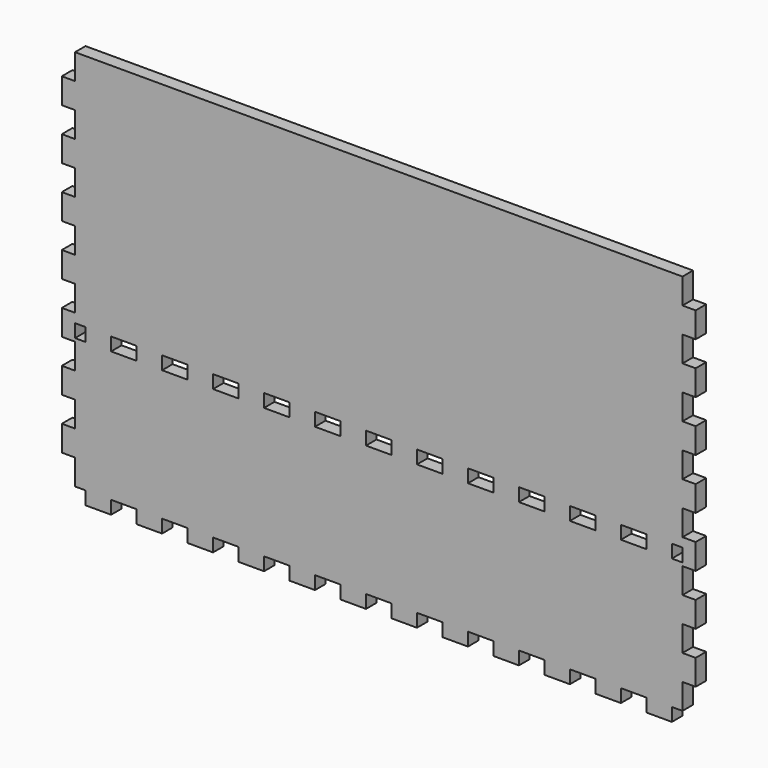
from build123d import *

# Parameters (mm, degrees)
F0_W     = 286
F0_H     = 180
F1_DEPTH = 6.2
F2_W     = 12
F2_H     = 6.2
F2_W_2   = 5
F3_DEPTH = 6.201
F4_W     = 12
F4_H     = 6.2
F5_DEPTH = 6.2
F6_W     = 6.2
F6_H     = 12
F7_DEPTH = 6.2


with BuildPart() as f1:
    # F0 (on Front) → F1 (new body)
    with BuildSketch(Plane.XZ):
        Rectangle(F0_W, F0_H)
    extrude(amount=F1_DEPTH)

    # F2 (on face) → F3 (cut, through all)
    with BuildSketch(Plane.XZ.offset(6.2)):
        with Locations((-120, -25.4)):
            Rectangle(F2_W, F2_H)
        with Locations((-96, -25.4)):
            Rectangle(F2_W, F2_H)
        with Locations((-72, -25.4)):
            Rectangle(F2_W, F2_H)
        with Locations((-48, -25.4)):
            Rectangle(F2_W, F2_H)
        with Locations((-24, -25.4)):
            Rectangle(F2_W, F2_H)
        with Locations((0, -25.4)):
            Rectangle(F2_W, F2_H)
        with Locations((24, -25.4)):
            Rectangle(F2_W, F2_H)
        with Locations((48, -25.4)):
            Rectangle(F2_W, F2_H)
        with Locations((72, -25.4)):
            Rectangle(F2_W, F2_H)
        with Locations((96, -25.4)):
            Rectangle(F2_W, F2_H)
        with Locations((120, -25.4)):
            Rectangle(F2_W, F2_H)
        with Locations((-140.5, -25.4)):
            Rectangle(F2_W_2, F2_H)
        with Locations((140.5, -25.4)):
            Rectangle(F2_W_2, F2_H)
    extrude(amount=-F3_DEPTH, mode=Mode.SUBTRACT)

    # F4 (on face) → F5 (join, through all)
    with BuildSketch(Plane.XZ.offset(6.2)):
        with Locations((-132, -93.1)):
            Rectangle(F4_W, F4_H)
        with Locations((-108, -93.1)):
            Rectangle(F4_W, F4_H)
        with Locations((-84, -93.1)):
            Rectangle(F4_W, F4_H)
        with Locations((-60, -93.1)):
            Rectangle(F4_W, F4_H)
        with Locations((-36, -93.1)):
            Rectangle(F4_W, F4_H)
        with Locations((-12, -93.1)):
            Rectangle(F4_W, F4_H)
        with Locations((12, -93.1)):
            Rectangle(F4_W, F4_H)
        with Locations((36, -93.1)):
            Rectangle(F4_W, F4_H)
        with Locations((60, -93.1)):
            Rectangle(F4_W, F4_H)
        with Locations((84, -93.1)):
            Rectangle(F4_W, F4_H)
        with Locations((108, -93.1)):
            Rectangle(F4_W, F4_H)
        with Locations((132, -93.1)):
            Rectangle(F4_W, F4_H)
    extrude(amount=-F5_DEPTH)

    # F6 (on face) → F7 (join)
    with BuildSketch(Plane.XZ.offset(6.2)):
        with Locations((-146.1, 0)):
            Rectangle(F6_W, F6_H)
        with Locations((-146.1, 24)):
            Rectangle(F6_W, F6_H)
        with Locations((-146.1, 48)):
            Rectangle(F6_W, F6_H)
        with Locations((-146.1, 72)):
            Rectangle(F6_W, F6_H)
        with Locations((-146.1, -24)):
            Rectangle(F6_W, F6_H)
        with Locations((-146.1, -48)):
            Rectangle(F6_W, F6_H)
        with Locations((-146.1, -72)):
            Rectangle(F6_W, F6_H)
        with Locations((146.1, 0)):
            Rectangle(F6_W, F6_H)
        with Locations((146.1, 24)):
            Rectangle(F6_W, F6_H)
        with Locations((146.1, -24)):
            Rectangle(F6_W, F6_H)
        with Locations((146.1, -72)):
            Rectangle(F6_W, F6_H)
        with Locations((146.1, -48)):
            Rectangle(F6_W, F6_H)
        with Locations((146.1, 72)):
            Rectangle(F6_W, F6_H)
        with Locations((146.1, 48)):
            Rectangle(F6_W, F6_H)
    extrude(amount=-F7_DEPTH)


solid = f1.part
